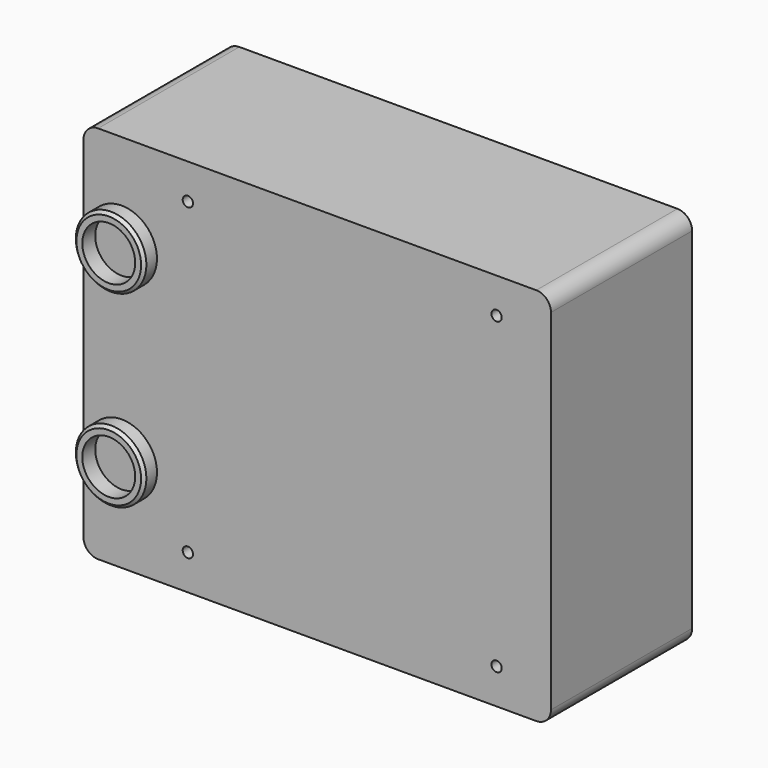
from build123d import *

# Parameters (mm, degrees)
F0_W     = 159
F0_H     = 129
F1_DEPTH = 60
F2_R     = 12
F2_R_2   = 9
F3_DEPTH = 5.5
F4_R     = 5
F6_D     = 3.505
F7_SIZE  = 1


with BuildPart() as f1:
    # F0 (on Front) → F1 (new body)
    with BuildSketch(Plane.XZ):
        with Locations((5.110869, -2.757801)):
            Rectangle(F0_W, F0_H)
    extrude(amount=F1_DEPTH)

    # F2 (on face) → F3 (join)
    with BuildSketch(Plane.XZ.offset(60)):
        with Locations((-61.389131, 29.242199)):
            Circle(F2_R)
        with Locations((-61.389131, 29.242199)):
            Circle(F2_R_2, mode=Mode.SUBTRACT)
        with Locations((-61.389131, -34.757801)):
            Circle(F2_R)
        with Locations((-61.389131, -34.757801)):
            Circle(F2_R_2, mode=Mode.SUBTRACT)
    extrude(amount=F3_DEPTH)

    # F4
    f4_edges = [f1.edges().sort_by_distance(p)[0] for p in [
        (84.610869, -30, -67.257801),
        (84.610869, -30, 61.742199),
        (-74.389131, -30, 61.742199),
        (-74.389131, -30, -67.257801),
    ]]
    fillet(f4_edges, radius=F4_R)

    # F6 (through all)
    with Locations(Plane.XZ.offset(60)):
        with Locations((-38.889131, 49.742199), (66.110869, 49.742199), (-38.889131, -55.257801), (66.110869, -55.257801)):
            Hole(F6_D / 2)

    # F7
    f7_edges = [f1.edges().sort_by_distance(p)[0] for p in [
        (-73.389131, -65.5, 29.242199),
        (-73.389131, -65.5, -34.757801),
    ]]
    chamfer(f7_edges, length=F7_SIZE)


solid = f1.part
